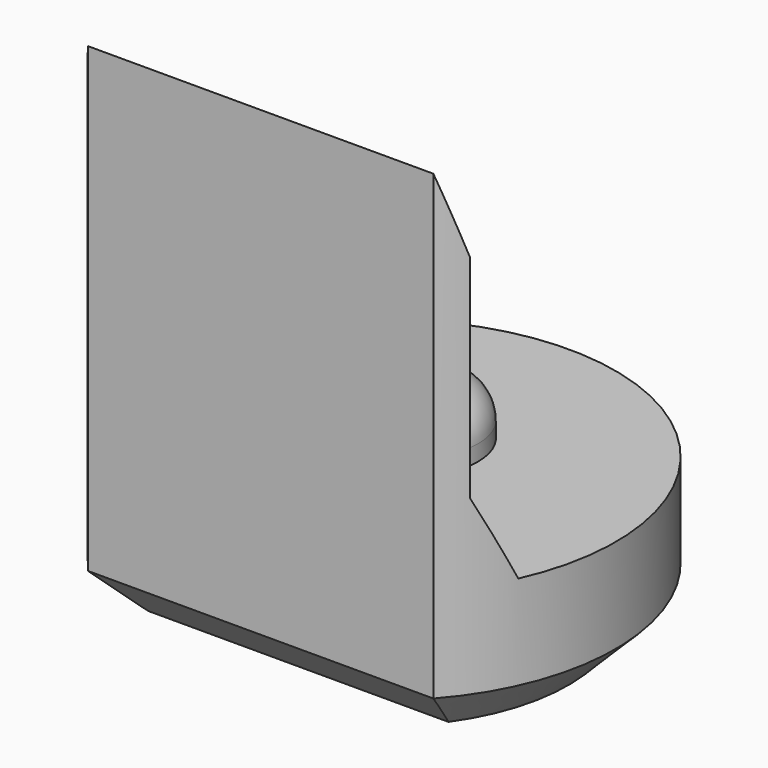
from build123d import *

# Parameters (mm, degrees)
PAD003_DEPTH         = 6.5
POCKET004_DEPTH      = 2.951
POCKET004_DEPTH_BACK = 2.951
SKETCH013_R          = 0.8
PAD006_DEPTH         = 0.7
FILLET_R             = 0.5
CHAMFER004_SIZE      = 0.6


with BuildPart() as part:
    # Sketch004 → Pad003 (new body)
    with BuildSketch(Plane.XY):
        with BuildLine():
            ThreePointArc((2.2, -1.9653244007), (0, 2.95), (-2.2, -1.9653244007))
            Line((-2.2, -1.9653244007), (2.2, -1.9653244007))
        make_face()
    extrude(amount=PAD003_DEPTH)

    # Sketch014 → Pocket004 (cut, two sides)
    with BuildSketch(Plane.YZ) as pocket004_sk:
        Polygon((-1.97, 6.5), (-1.67, 5.5), (-1.67, 2.8), (-1.22, 1.8), (4, 1.8), (4, 6.5), align=None)
    extrude(amount=-POCKET004_DEPTH, mode=Mode.SUBTRACT)
    extrude(pocket004_sk.sketch, amount=POCKET004_DEPTH_BACK, mode=Mode.SUBTRACT)

    # Sketch013 (on Face7 of Pocket004) → Pad006 (join)
    with BuildSketch(Plane.XY.offset(1.8)):
        with Locations((0, 0.5)):
            Circle(SKETCH013_R)
    extrude(amount=PAD006_DEPTH)

    # Fillet
    fillet_edges = [part.edges().sort_by_distance(p)[0] for p in [
        (-0.8, 0.5, 2.5),
    ]]
    fillet(fillet_edges, radius=FILLET_R)

    # Chamfer004
    chamfer004_edges = [part.edges().sort_by_distance(p)[0] for p in [
        (0, 2.95, 0),
        (0, -1.965324, 0),
    ]]
    chamfer(chamfer004_edges, length=CHAMFER004_SIZE)


with BuildPart() as part_1:
    # Body030 placement: moved
    add(part.part.moved(Location((0, 66, 0))))


solid = part_1.part
